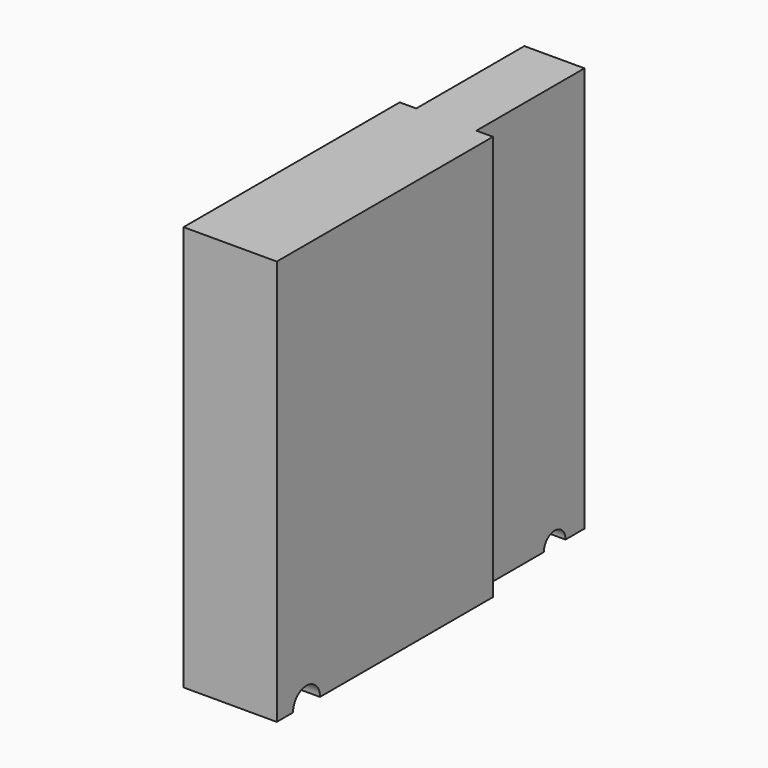
from build123d import *

# Parameters (mm, degrees)
SKETCH_W      = 6.9
SKETCH_H      = 20
PAD_DEPTH     = 30
SKETCH001_W   = 4.45
SKETCH001_H   = 10
PAD001_DEPTH  = 30
SKETCH002_R   = 1
SKETCH002_R_2 = 1.25
POCKET_DEPTH  = 20


with BuildPart() as part:
    # Sketch → Pad (new body)
    with BuildSketch(Plane.XY):
        Rectangle(SKETCH_W, SKETCH_H)
    extrude(amount=PAD_DEPTH)

    # Sketch001 → Pad001 (join)
    with BuildSketch(Plane.XY):
        with Locations((0, 15)):
            Rectangle(SKETCH001_W, SKETCH001_H)
    extrude(amount=PAD001_DEPTH)

    # Sketch002 (on Face4 of Pad001) → Pocket (cut, symmetric)
    with BuildSketch(Plane.YZ.offset(2.225)):
        with Locations((17.25, 0)):
            Circle(SKETCH002_R)
        with Locations((-7.25, 0)):
            Circle(SKETCH002_R_2)
    extrude(amount=POCKET_DEPTH, both=True, mode=Mode.SUBTRACT)


solid = part.part
